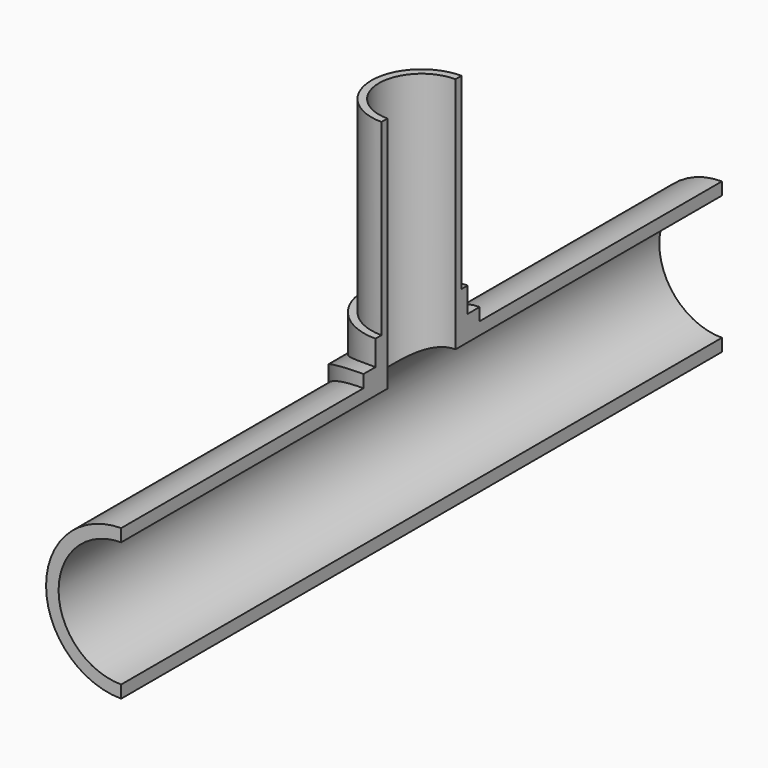
from build123d import *

# Parameters (mm, degrees)
BOX001_W               = 2000
BOX001_H               = 2000
BOX001_DEPTH           = 2000
CYLINDER007_R          = 125
CYLINDER007_DEPTH      = 1500
CYLINDER007_ROLL_ANGLE = 90
CYLINDER006_R          = 85
CYLINDER006_DEPTH      = 600
CYLINDER002_R          = 115
CYLINDER002_DEPTH      = 225
CYLINDER001_R          = 150
CYLINDER001_DEPTH      = 1500
CYLINDER001_ROLL_ANGLE = 90
CYLINDER_R             = 100
CYLINDER_DEPTH         = 600
BOX_W                  = 500
BOX_H                  = 500
BOX_DEPTH              = 500
CYLINDER004_R          = 145
CYLINDER004_DEPTH      = 600
CYLINDER005_R          = 300
CYLINDER005_DEPTH      = 600
CYLINDER003_R          = 175
CYLINDER003_DEPTH      = 400
CYLINDER003_ROLL_ANGLE = 90


with BuildPart() as cube001:
    # Box001 → Box001 (new body)
    with BuildSketch(Plane(origin=(0, -1000, -1000), x_dir=(1, 0, 0), z_dir=(0, 0, 1))):
        with Locations((1000, 1000)):
            Rectangle(BOX001_W, BOX001_H)
    extrude(amount=BOX001_DEPTH)


with BuildPart() as cylinder007:
    # Cylinder007 → Cylinder007 (new body)
    with BuildSketch(Plane.XY):
        Circle(CYLINDER007_R)
    extrude(amount=CYLINDER007_DEPTH)


with BuildPart() as cylinder007_1:
    # Cylinder007 roll: moved
    add(cylinder007.part.rotate(Axis((0, 0, 0), (1, 0, 0)), CYLINDER007_ROLL_ANGLE))


with BuildPart() as cylinder007_2:
    # Cylinder007 placement: moved
    add(cylinder007_1.part.moved(Location((0, 750, 0))))


with BuildPart() as cylinder006:
    # Cylinder006 → Cylinder006 (new body)
    with BuildSketch(Plane.XY):
        Circle(CYLINDER006_R)
    extrude(amount=CYLINDER006_DEPTH)


with BuildPart() as cylinder002:
    # Cylinder002 → Cylinder002 (new body)
    with BuildSketch(Plane.XY):
        Circle(CYLINDER002_R)
    extrude(amount=CYLINDER002_DEPTH)


with BuildPart() as cylinder001:
    # Cylinder001 → Cylinder001 (new body)
    with BuildSketch(Plane.XY):
        Circle(CYLINDER001_R)
    extrude(amount=CYLINDER001_DEPTH)


with BuildPart() as cylinder001_1:
    # Cylinder001 roll: moved
    add(cylinder001.part.rotate(Axis((0, 0, 0), (1, 0, 0)), CYLINDER001_ROLL_ANGLE))


with BuildPart() as cylinder001_2:
    # Cylinder001 placement: moved
    add(cylinder001_1.part.moved(Location((0, 750, 0))))


with BuildPart() as cylinder:
    # Cylinder → Cylinder (new body)
    with BuildSketch(Plane.XY):
        Circle(CYLINDER_R)
    extrude(amount=CYLINDER_DEPTH)


with BuildPart() as cube:
    # Box → Box (new body)
    with BuildSketch(Plane(origin=(-226, -279, -480), x_dir=(1, 0, 0), z_dir=(0, 0, 1))):
        with Locations((250, 250)):
            Rectangle(BOX_W, BOX_H)
    extrude(amount=BOX_DEPTH)


with BuildPart() as cylinder004:
    # Cylinder004 → Cylinder004 (new body)
    with BuildSketch(Plane.XY):
        Circle(CYLINDER004_R)
    extrude(amount=CYLINDER004_DEPTH)


with BuildPart() as cut:
    # Cylinder005 → Cylinder005 (new body)
    with BuildSketch(Plane.XY):
        Circle(CYLINDER005_R)
    extrude(amount=CYLINDER005_DEPTH)

    # Cut: cut Cylinder004
    add(cylinder004.part, mode=Mode.SUBTRACT)


with BuildPart() as cut005:
    # Cylinder003 → Cylinder003 (new body)
    with BuildSketch(Plane.XY):
        Circle(CYLINDER003_R)
    extrude(amount=CYLINDER003_DEPTH)


with BuildPart() as cut005_1:
    # Cylinder003 roll: moved
    add(cut005.part.rotate(Axis((0, 0, 0), (1, 0, 0)), CYLINDER003_ROLL_ANGLE))


with BuildPart() as cut005_2:
    # Cylinder003 placement: moved
    add(cut005_1.part.moved(Location((0, 200, 0))))

    # Cut001: cut Cut
    add(cut.part, mode=Mode.SUBTRACT)

    # Cut002: cut Cube
    add(cube.part, mode=Mode.SUBTRACT)

    # Fusion: union Cylinder002, Cylinder001, Cylinder
    add(cylinder002.part)
    add(cylinder001_2.part)
    add(cylinder.part)

    # Cut003: cut Cylinder006
    add(cylinder006.part, mode=Mode.SUBTRACT)

    # Cut004: cut Cylinder007
    add(cylinder007_2.part, mode=Mode.SUBTRACT)

    # Cut005: cut Cube001
    add(cube001.part, mode=Mode.SUBTRACT)


solid = cut005_2.part
